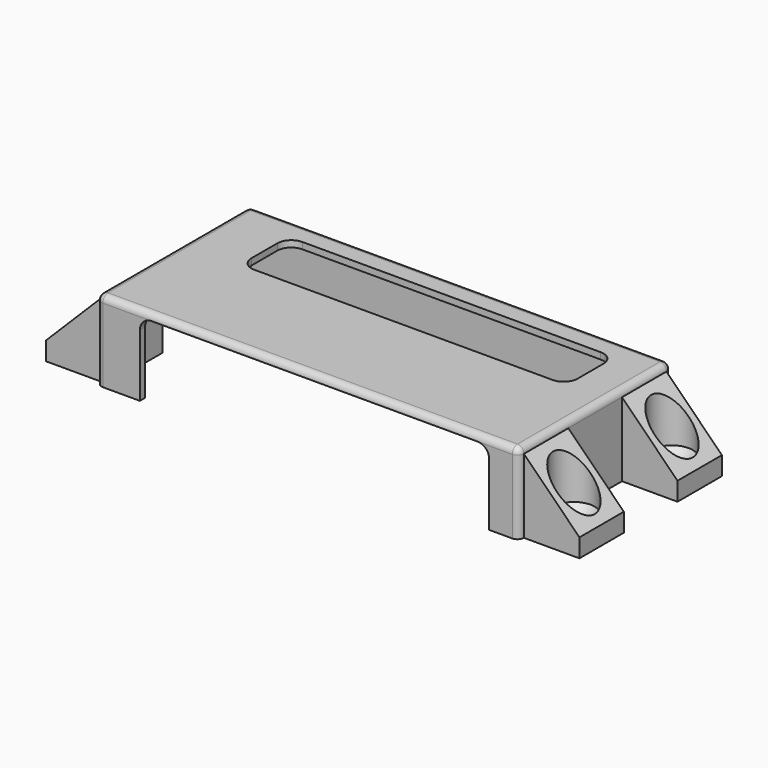
from build123d import *

# Parameters (mm, degrees)
SKETCH_W         = 88.5
SKETCH_H         = 38.5
PAD_DEPTH        = 16
THICKNESS_T      = 1.4
POCKET_DEPTH     = 1.4
POCKET001_DEPTH  = 5
POCKET002_DEPTH  = 5
SKETCH004_W      = 12
SKETCH004_H      = 4
PAD001_DEPTH     = 12
HOLE_D           = 5
HOLE_DEPTH       = 25
HOLE_CSINK_D     = 9
HOLE_CSINK_ANGLE = 90
SKETCH006_W      = 12
SKETCH006_H      = 12
SKETCH006_R      = 4.5
PAD002_DEPTH     = 11.99
POCKET003_DEPTH  = 265.106151


with BuildPart() as part:
    # Sketch → Pad (new body)
    with BuildSketch(Plane.XY):
        with Locations((0, 19.25)):
            Rectangle(SKETCH_W, SKETCH_H)
    extrude(amount=PAD_DEPTH)

    # Thickness
    thickness_openings = [part.faces().sort_by_distance(p)[0] for p in [
        (0, 19.25, 0),
    ]]
    offset(amount=THICKNESS_T, openings=thickness_openings)

    # Sketch001 (on Face14 of Thickness) → Pocket (cut)
    with BuildSketch(Plane(origin=(-45.65, 0, 0), x_dir=(0, -1, 0), z_dir=(-1, 0, 0))):
        with BuildLine():
            Line((-23.75, 0), (-23.75, 9))
            ThreePointArc((-14.75, 9), (-19.25, 13.5), (-23.75, 9))
            Line((-14.75, 0), (-14.75, 9))
            Line((-23.75, 0), (-14.75, 0))
        make_face()
    extrude(amount=-POCKET_DEPTH, mode=Mode.SUBTRACT)

    # Sketch002 (on Face26 of Pocket) → Pocket001 (cut)
    with BuildSketch(Plane.XY.offset(17.4)):
        with BuildLine():
            ThreePointArc((-30.25, 35), (-32.37132, 34.12132), (-33.25, 32))
            Line((-33.25, 25), (-33.25, 32))
            ThreePointArc((-33.25, 25), (-32.37132, 22.87868), (-30.25, 22))
            Line((34.25, 22), (-30.25, 22))
            ThreePointArc((34.25, 22), (36.37132, 22.87868), (37.25, 25))
            Line((37.25, 32), (37.25, 25))
            ThreePointArc((37.25, 32), (36.37132, 34.12132), (34.25, 35))
            Line((-30.25, 35), (34.25, 35))
        make_face()
    extrude(amount=-POCKET001_DEPTH, mode=Mode.SUBTRACT)

    # Sketch003 (on Face16 of Pocket001) → Pocket002 (cut)
    with BuildSketch(Plane.XZ.offset(1.4)):
        with BuildLine():
            Line((39.25, 0), (-36.25, 0))
            Line((-36.25, 0), (-36.25, 13.5))
            ThreePointArc((-33.75, 16), (-35.517767, 15.267767), (-36.25, 13.5))
            Line((-33.75, 16), (36.75, 16))
            ThreePointArc((39.25, 13.5), (38.517767, 15.267767), (36.75, 16))
            Line((39.25, 13.5), (39.25, 0))
        make_face()
    extrude(amount=-POCKET002_DEPTH, mode=Mode.SUBTRACT)

    # Sketch004 (on Face9 of Pocket002) → Pad001 (join)
    with BuildSketch(Plane(origin=(-45.65, 0, 0), x_dir=(0, -1, 0), z_dir=(-1, 0, 0))):
        with Locations((-32.5, 2)):
            Rectangle(SKETCH004_W, SKETCH004_H)
        with Locations((-6, 2)):
            Rectangle(SKETCH004_W, SKETCH004_H)
    pad001 = extrude(amount=PAD001_DEPTH)

    # Hole
    with Locations(Plane.XY.offset(4)):
        with Locations((-51.65, 32.5), (-51.65, 6)):
            hole = CounterSinkHole(HOLE_D / 2, HOLE_CSINK_D / 2, depth=HOLE_DEPTH, counter_sink_angle=HOLE_CSINK_ANGLE)

    # Sketch006 (on Face35 of Hole) → Pad002 (join)
    with BuildSketch(Plane.XY.offset(4)):
        with Locations((-51.65, 6)):
            Rectangle(SKETCH006_W, SKETCH006_H)
        with Locations((-51.65, 6)):
            Circle(SKETCH006_R, mode=Mode.SUBTRACT)
        with Locations((-51.65, 32.5)):
            Rectangle(SKETCH006_W, SKETCH006_H)
        with Locations((-51.65, 32.5)):
            Circle(SKETCH006_R, mode=Mode.SUBTRACT)
    pad002 = extrude(amount=PAD002_DEPTH)

    # Sketch007 (on Face56 of Pad002) → Pocket003 (cut, through all)
    with BuildSketch(Plane(origin=(0, 38.5, 0), x_dir=(-1, 0, 0), z_dir=(0, 1, 0))):
        Polygon((45.65, 15.99), (57.65, 15.99), (57.65, 4), align=None)
    pocket003 = extrude(amount=-POCKET003_DEPTH, mode=Mode.SUBTRACT)

    # Mirrored: Pad001, Hole, Pad002, Pocket003 across YZ
    add(pad001.mirror(Plane.YZ))
    add(hole.mirror(Plane.YZ), mode=Mode.SUBTRACT)
    add(pad002.mirror(Plane.YZ))
    add(pocket003.mirror(Plane.YZ), mode=Mode.SUBTRACT)


solid = part.part
